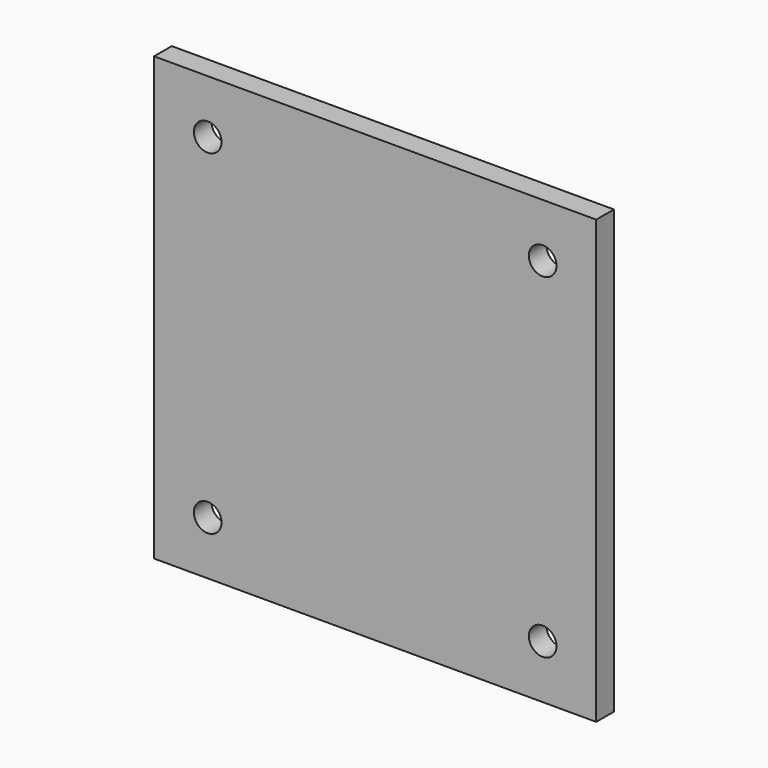
from build123d import *

# Parameters (mm, degrees)
F0_W     = 80
F0_H     = 80
F1_DEPTH = 4
F2_D     = 5


with BuildPart() as f1:
    # F0 (on Front) → F1 (new body)
    with BuildSketch(Plane.XZ):
        Rectangle(F0_W, F0_H)
    extrude(amount=F1_DEPTH)

    # F2 (through all)
    with Locations(Plane(origin=(0, 0, 0), x_dir=(1, 0, 0), z_dir=(0, 1, 0))):
        with Locations((-30.3, -30.3), (30.3, -30.3), (30.3, 30.3), (-30.3, 30.3)):
            Hole(F2_D / 2)


solid = f1.part
